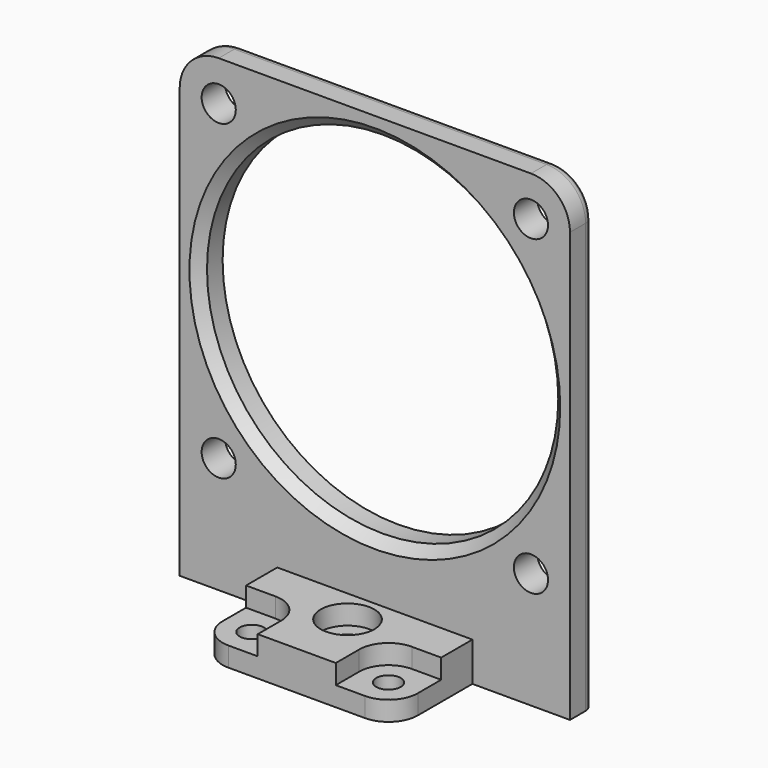
from build123d import *

# Parameters (mm, degrees)
F0_W     = 40
F0_H     = 48
F0_R     = 1.75
F0_R_2   = 18
F1_DEPTH = 3
F2_W     = 20
F2_H     = 4
F3_DEPTH = 13
F4_R     = 1.25
F5_DEPTH = 25
F6_W     = 6
F6_H     = 6
F6_R     = 2.75
F7_DEPTH = 2
F8_R     = 4
F9_R     = 3
F10_SIZE = 1
F11_R    = 1


with BuildPart() as f1:
    # F0 (on Front) → F1 (new body)
    with BuildSketch(Plane.XZ):
        with Locations((0, 24)):
            Rectangle(F0_W, F0_H)
        with Locations((-16, 11.902926147)):
            Circle(F0_R, mode=Mode.SUBTRACT)
        with Locations((16, 11.902926147)):
            Circle(F0_R, mode=Mode.SUBTRACT)
        with Locations((-16, 43.902926147)):
            Circle(F0_R, mode=Mode.SUBTRACT)
        with Locations((0, 27.902926147)):
            Circle(F0_R_2, mode=Mode.SUBTRACT)
        with Locations((16, 43.902926147)):
            Circle(F0_R, mode=Mode.SUBTRACT)
    extrude(amount=F1_DEPTH)

    # F2 (on Front) → F3 (join)
    with BuildSketch(Plane.XZ):
        with Locations((0, 2)):
            Rectangle(F2_W, F2_H)
    extrude(amount=F3_DEPTH)

    # F4 (on Top) → F5 (cut)
    with BuildSketch(Plane.XY):
        with Locations((0, -6.5)):
            Circle(F4_R)
        with Locations((-7, -10)):
            Circle(F4_R)
        with Locations((7, -10)):
            Circle(F4_R)
    extrude(amount=F5_DEPTH, mode=Mode.SUBTRACT)

    # F6 (on face) → F7 (cut)
    with BuildSketch(Plane.XY.offset(4)):
        with Locations((-7, -10)):
            Rectangle(F6_W, F6_H)
        with Locations((7, -10)):
            Rectangle(F6_W, F6_H)
        with Locations((0, -6.5)):
            Circle(F6_R)
    extrude(amount=-F7_DEPTH, mode=Mode.SUBTRACT)

    # F8
    f8_edges = [f1.edges().sort_by_distance(p)[0] for p in [
        (20, -1.5, 48),
        (-20, -1.5, 48),
    ]]
    fillet(f8_edges, radius=F8_R)

    # F9
    f9_edges = [f1.edges().sort_by_distance(p)[0] for p in [
        (4, -7, 3),
        (10, -13, 1),
        (-4, -7, 3),
        (-10, -13, 1),
    ]]
    fillet(f9_edges, radius=F9_R)

    # F10
    f10_edges = [f1.edges().sort_by_distance(p)[0] for p in [
        (-18, -3, 27.902926),
    ]]
    chamfer(f10_edges, length=F10_SIZE)

    # F11
    f11_edges = [f1.edges().sort_by_distance(p)[0] for p in [
        (20, 0, 22),
    ]]
    fillet(f11_edges, radius=F11_R)


solid = f1.part
